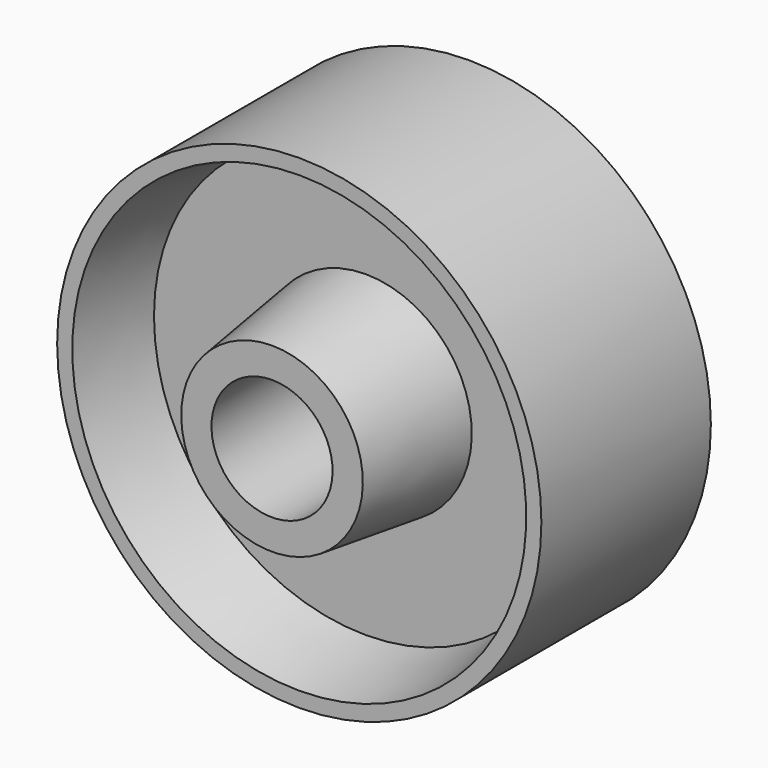
from build123d import *


with BuildPart() as f1:
    # F0 (on Right) → F1 (revolve)
    with BuildSketch(Plane.YZ):
        Polygon((-60.269166, 19.05), (-60.269166, 12.7), (-30.900416, 12.7), (-30.900416, 50.8), (-53.125416, 50.8), (-53.125416, 47.625), (-35.662916, 44.45), (-35.662916, 22.225), align=None)
        Polygon((-30.900416, 50.8), (-30.900416, 12.7), (-1.531666, 12.7), (-1.531666, 19.05), (-26.137916, 22.225), (-26.137916, 44.45), (-8.675416, 47.625), (-8.675416, 50.8), align=None)
    revolve(axis=Axis((0, 4.061773, 0), (0, 1, 0)))


solid = f1.part
